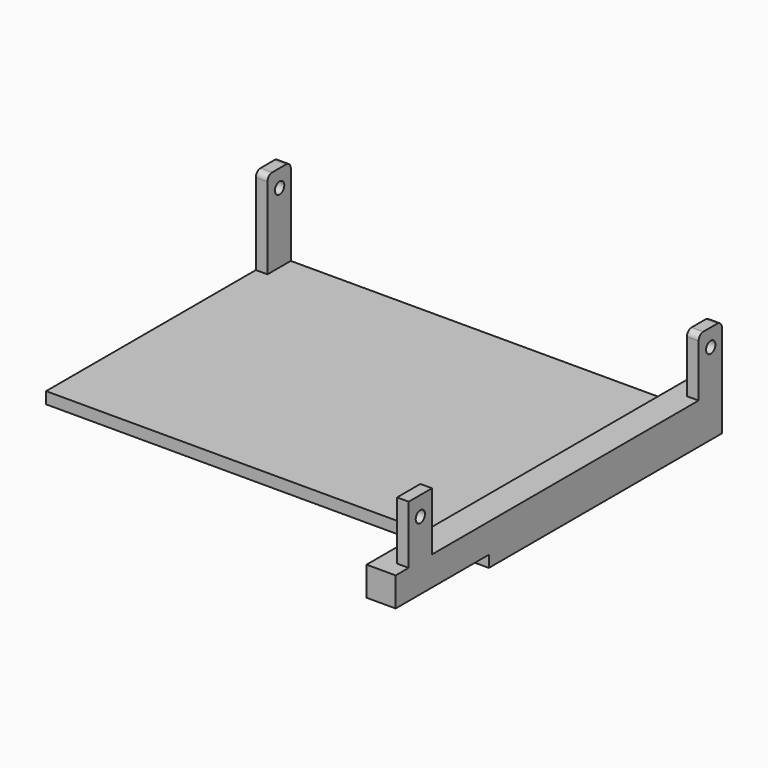
from build123d import *

# Parameters (mm, degrees)
F1_DEPTH  = 250
F0_W      = 10
F0_H      = 75
F2_DEPTH  = 25
F3_R      = 5
F4_DEPTH  = 380.001
F5_R      = 5
F6_W      = 25
F6_H      = 350
F7_DEPTH  = 25
F8_W      = 10
F8_H      = 25
F9_DEPTH  = 50
F10_R     = 5
F11_DEPTH = 380.001


with BuildPart() as f1:
    # F0 (on Front) → F1 (new body)
    with BuildSketch(Plane.XZ):
        Polygon((-268.93918, 1.907515), (-278.93918, 1.907515), (-278.93918, -8.092485), (101.06082, -8.092485), (101.06082, 1.907515), (91.06082, 1.907515), align=None)
    extrude(amount=F1_DEPTH)

    # F0 (on Front) → F2 (join)
    with BuildSketch(Plane.XZ):
        with Locations((-273.93918, 39.407515)):
            Rectangle(F0_W, F0_H)
        Polygon((-268.93918, 1.907515), (-278.93918, 1.907515), (-278.93918, -8.092485), (101.06082, -8.092485), (101.06082, 1.907515), (91.06082, 1.907515), align=None)
        with Locations((96.06082, 39.407515)):
            Rectangle(F0_W, F0_H)
    extrude(amount=F2_DEPTH)

    # F3 (on face) → F4 (cut, through all)
    with BuildSketch(Plane(origin=(-278.93918, 0, 0), x_dir=(0, -1, 0), z_dir=(-1, 0, 0))):
        with Locations((11.970147, 61.907515)):
            Circle(F3_R)
    extrude(amount=-F4_DEPTH, mode=Mode.SUBTRACT)

    # F5
    f5_edges = [f1.edges().sort_by_distance(p)[0] for p in [
        (-273.93918, 0, 76.907515),
        (-273.93918, -25, 76.907515),
        (96.06082, 0, 76.907515),
        (96.06082, -25, 76.907515),
    ]]
    fillet(f5_edges, radius=F5_R)

    # F6 (on face) → F7 (join)
    with BuildSketch(Plane.XY.offset(1.907515)):
        with Locations((88.56082, -175)):
            Rectangle(F6_W, F6_H)
    extrude(amount=F7_DEPTH)

    # F8 (on face) → F9 (join)
    with BuildSketch(Plane.XY.offset(26.907515)):
        with Locations((96.06082, -323.5)):
            Rectangle(F8_W, F8_H)
    extrude(amount=F9_DEPTH)

    # F10 (on face) → F11 (cut, through all)
    with BuildSketch(Plane.YZ.offset(101.06082)):
        with Locations((-323.5, 60.567401)):
            Circle(F10_R)
    extrude(amount=-F11_DEPTH, mode=Mode.SUBTRACT)


solid = f1.part
